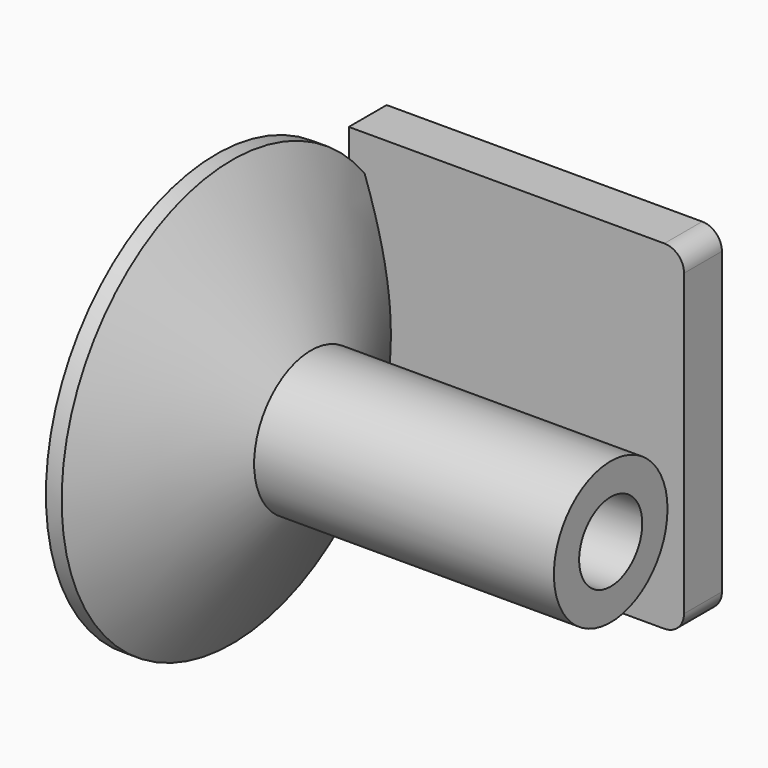
from build123d import *

# Parameters (mm, degrees)
F4_DEPTH = 12


with BuildPart() as f1:
    # F0 (on Top) → F1 (revolve)
    with BuildSketch(Plane.XY):
        Polygon((-30, 10), (0, 10), (0, 18), (-76, 18), (-96, 54), (-100, 54), (-100, 50), (-99.777778, 50), (-82, 18), (-88, 18), (-88, 10), (-60, 10), (-60, 12), (-30, 12), align=None)
    revolve(axis=Axis((-50, 0, 0), (1, 0, 0)))

    # F3 (on offset) → F4 (join)
    with BuildSketch(Plane.XZ.offset(-54)):
        with BuildLine():
            Line((-100, 43), (-100, -43))
            Line((-100, -43), (-20, -43))
            ThreePointArc((-20, -43), (-16.464466, -41.535534), (-15, -38))
            Line((-15, -38), (-15, 38))
            ThreePointArc((-15, 38), (-16.464466, 41.535534), (-20, 43))
            Line((-20, 43), (-100, 43))
        make_face()
    extrude(amount=F4_DEPTH)


solid = f1.part
